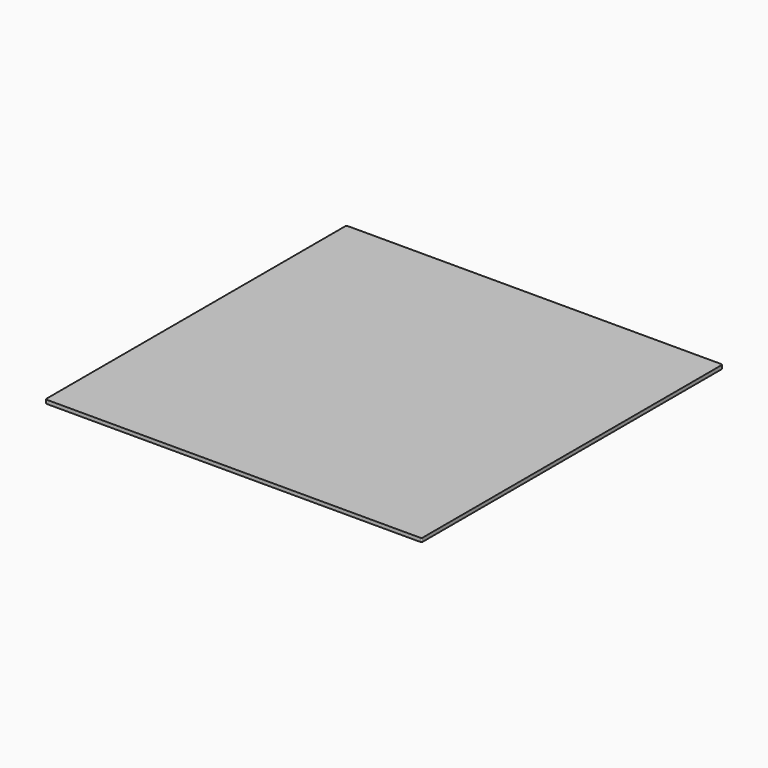
from build123d import *

# Parameters (mm, degrees)
PAD_DEPTH = 3


with BuildPart() as part:
    # Sketch → Pad (new body)
    with BuildSketch(Plane.XY):
        with BuildLine():
            ThreePointArc((-151.4, 152.4), (-152.107107, 152.107107), (-152.4, 151.4))
            Line((-152.4, -151.4), (-152.4, 151.4))
            ThreePointArc((-152.4, -151.4), (-152.107107, -152.107107), (-151.4, -152.4))
            Line((151.4, -152.4), (-151.4, -152.4))
            ThreePointArc((151.4, -152.4), (152.107107, -152.107107), (152.4, -151.4))
            Line((152.4, 151.4), (152.4, -151.4))
            ThreePointArc((152.4, 151.4), (152.107107, 152.107107), (151.4, 152.4))
            Line((-151.4, 152.4), (151.4, 152.4))
        make_face()
    extrude(amount=PAD_DEPTH)


solid = part.part
